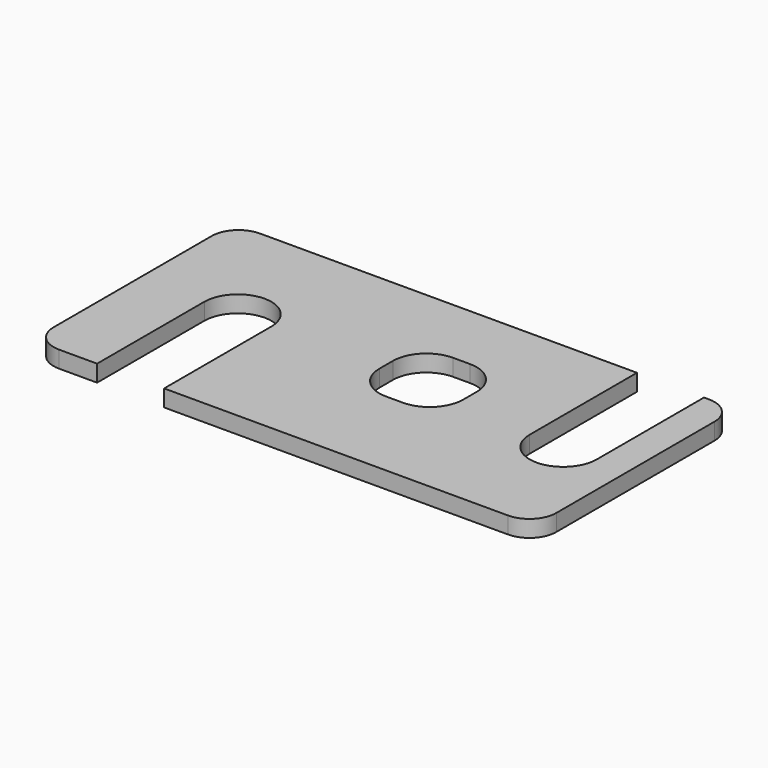
from build123d import *

# Parameters (mm, degrees)
F0_W     = 150
F0_H     = 75
F1_DEPTH = 5
F3_DEPTH = 5.001
F5_DEPTH = 5.001
F6_W     = 25
F6_H     = 25
F7_DEPTH = 5.001
F8_R     = 10
F9_R     = 8


with BuildPart() as f1:
    # F0 (on Top) → F1 (new body)
    with BuildSketch(Plane.XY):
        with Locations((-34.16129, 0.826124)):
            Rectangle(F0_W, F0_H)
    extrude(amount=F1_DEPTH)

    # F2 (on face) → F3 (cut, through all)
    with BuildSketch(Plane.XY.offset(5)):
        with BuildLine():
            Line((-89.776412, 3.326124), (-89.776412, -36.673876))
            Line((-89.776412, -36.673876), (-69.776412, -36.673876))
            Line((-69.776412, -36.673876), (-69.776412, 3.326124))
            ThreePointArc((-69.776412, 3.326124), (-79.776412, 13.326124), (-89.776412, 3.326124))
        make_face()
    extrude(amount=-F3_DEPTH, mode=Mode.SUBTRACT)

    # F4 (on face) → F5 (cut, through all)
    with BuildSketch(Plane.XY.offset(5)):
        with BuildLine():
            Line((31.320997, -1.673876), (31.320997, 38.326124))
            Line((31.320997, 38.326124), (11.320997, 38.326124))
            Line((11.320997, 38.326124), (11.320997, -1.673876))
            ThreePointArc((11.320997, -1.673876), (21.320997, -11.673876), (31.320997, -1.673876))
        make_face()
    extrude(amount=-F5_DEPTH, mode=Mode.SUBTRACT)

    # F6 (on face) → F7 (cut, through all)
    with BuildSketch(Plane.XY.offset(5)):
        with Locations((-24.330012, 4.958801)):
            Rectangle(F6_W, F6_H)
    extrude(amount=-F7_DEPTH, mode=Mode.SUBTRACT)

    # F8
    f8_edges = [f1.edges().sort_by_distance(p)[0] for p in [
        (-36.830012, -7.541199, 2.5),
        (-11.830012, -7.541199, 2.5),
        (-11.830012, 17.458801, 2.5),
        (-36.830012, 17.458801, 2.5),
    ]]
    fillet(f8_edges, radius=F8_R)

    # F9
    f9_edges = [f1.edges().sort_by_distance(p)[0] for p in [
        (40.83871, 38.326124, 2.5),
        (-109.16129, -36.673876, 2.5),
        (40.83871, -36.673876, 2.5),
        (-109.16129, 38.326124, 2.5),
    ]]
    fillet(f9_edges, radius=F9_R)


solid = f1.part
